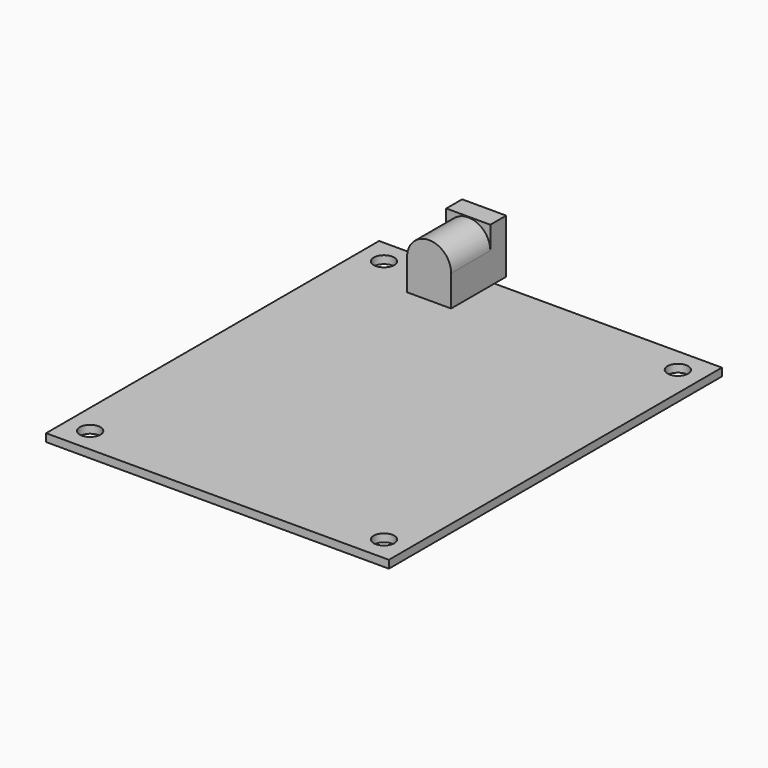
from build123d import *

# Parameters (mm, degrees)
SKETCH005_W             = 85
SKETCH005_H             = 70
SKETCH005_R             = 2.1
PAD003_DEPTH            = 1.6
SKETCH006_W             = 14.05
SKETCH006_H             = 9
PAD004_DEPTH            = 11
SKETCH007_R             = 3.25
SKETCH007_R_2           = 1.05
POCKET001_DEPTH         = 9.5
FILLET001_R             = 0.5
POCKET002_DEPTH         = 10
BODY003_PLACEMENT_ANGLE = 90


with BuildPart() as part:
    # Sketch005 → Pad003 (new body)
    with BuildSketch(Plane.XY):
        with Locations((-7.5, 0)):
            Rectangle(SKETCH005_W, SKETCH005_H)
        with Locations((-45, -30)):
            Circle(SKETCH005_R, mode=Mode.SUBTRACT)
        with Locations((30, -30)):
            Circle(SKETCH005_R, mode=Mode.SUBTRACT)
        with Locations((-45, 30)):
            Circle(SKETCH005_R, mode=Mode.SUBTRACT)
        with Locations((30, 30)):
            Circle(SKETCH005_R, mode=Mode.SUBTRACT)
    extrude(amount=PAD003_DEPTH)

    # Sketch006 (on Face10 of Pad003) → Pad004 (join)
    with BuildSketch(Plane.XY.offset(1.6)):
        with Locations((30.975, 15.95)):
            Rectangle(SKETCH006_W, SKETCH006_H)
    extrude(amount=PAD004_DEPTH)

    # Sketch007 (on Face15 of Pad004) → Pocket001 (cut)
    with BuildSketch(Plane.YZ.offset(38)):
        with Locations((15.95, 8.1)):
            Circle(SKETCH007_R)
        with Locations((15.95, 8.1)):
            Circle(SKETCH007_R_2, mode=Mode.SUBTRACT)
    extrude(amount=-POCKET001_DEPTH, mode=Mode.SUBTRACT)

    # Fillet001
    fillet001_edges = [part.edges().sort_by_distance(p)[0] for p in [
        (38, 14.9, 8.1),
    ]]
    fillet(fillet001_edges, radius=FILLET001_R)

    # Sketch008 (on Face11 of Fillet001) → Pocket002 (cut)
    with BuildSketch(Plane(origin=(23.95, 0, 0), x_dir=(0, -1, 0), z_dir=(-1, 0, 0))):
        with BuildLine():
            ThreePointArc((-11.45, 7.95), (-15.95, 12.45), (-20.45, 7.95))
            Line((-20.45, 7.95), (-20.45, 12.6))
            Line((-20.45, 12.6), (-11.45, 12.6))
            Line((-11.45, 12.6), (-11.45, 7.95))
        make_face()
    extrude(amount=-POCKET002_DEPTH, mode=Mode.SUBTRACT)


with BuildPart() as part_1:
    # Body003 placement: moved
    add(part.part.moved(Location((0, 31, 10.6))).rotate(Axis((0, 31, 10.6), (0, 0, 1)), BODY003_PLACEMENT_ANGLE))


solid = part_1.part
